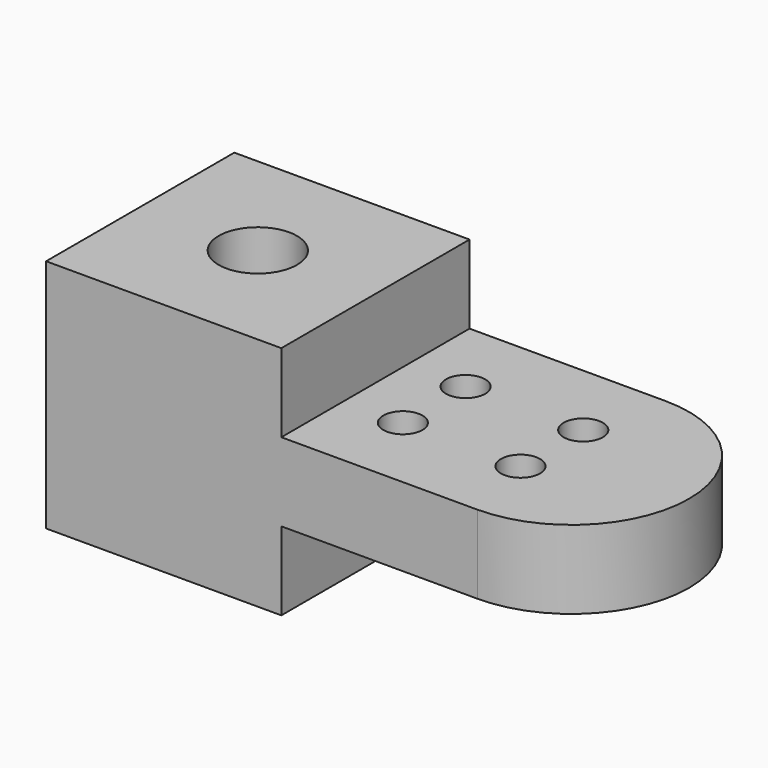
from build123d import *

# Parameters (mm, degrees)
F0_W     = 38.1
F0_H     = 38.1
F0_R     = 6.35
F0_R_2   = 3.175
F1_DEPTH = 38.1
F2_W     = 50.8
F2_H     = 12.7
F3_DEPTH = 38.1


with BuildPart() as f1:
    # F0 (on Top) → F1 (new body)
    with BuildSketch(Plane.XY):
        with Locations((19.05, 19.05)):
            Rectangle(F0_W, F0_H)
        with Locations((19.05, 19.05)):
            Circle(F0_R, mode=Mode.SUBTRACT)
        with BuildLine():
            Line((38.1, 38.1), (38.1, 0))
            Line((38.1, 0), (69.85, 0))
            ThreePointArc((69.85, 0), (88.9, 19.05), (69.85, 38.1))
            Line((69.85, 38.1), (38.1, 38.1))
        make_face()
        with Locations((47.625, 12.7)):
            Circle(F0_R_2, mode=Mode.SUBTRACT)
        with Locations((66.675, 12.7)):
            Circle(F0_R_2, mode=Mode.SUBTRACT)
        with Locations((47.625, 25.4)):
            Circle(F0_R_2, mode=Mode.SUBTRACT)
        with Locations((66.675, 25.4)):
            Circle(F0_R_2, mode=Mode.SUBTRACT)
    extrude(amount=F1_DEPTH)

    # F2 (on Front) → F3 (cut)
    with BuildSketch(Plane.XZ):
        with Locations((63.5, 31.75)):
            Rectangle(F2_W, F2_H)
        with Locations((63.5, 6.35)):
            Rectangle(F2_W, F2_H)
    extrude(amount=-F3_DEPTH, mode=Mode.SUBTRACT)


solid = f1.part
